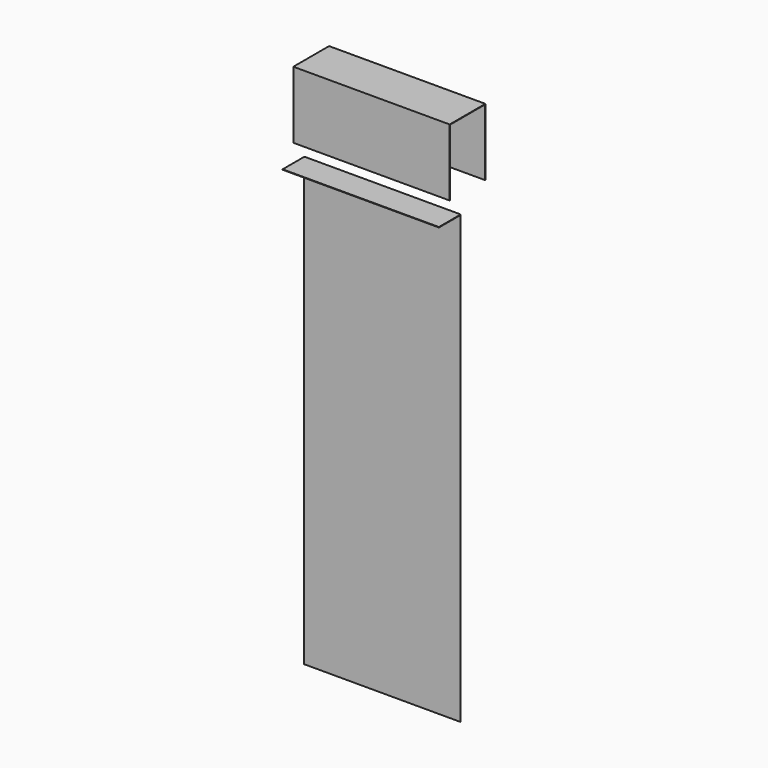
from build123d import *

# Parameters (mm, degrees)
F2_W          = 35
F2_H          = 0.1
F3_DEPTH      = 100
F4_W          = 35
F4_H          = 0.1
F5_DEPTH      = 6
F7_DEPTH      = 17.5
F7_DEPTH_BACK = 17.5


with BuildPart() as f3:
    # F2 (on Top) → F3 (new body)
    with BuildSketch(Plane.XY):
        with Locations((0, 0.05)):
            Rectangle(F2_W, F2_H)
    extrude(amount=-F3_DEPTH)

    # F4 (on Front) → F5 (join)
    with BuildSketch(Plane.XZ):
        with Locations((0, -0.05)):
            Rectangle(F4_W, F4_H)
    extrude(amount=F5_DEPTH)


with BuildPart() as f7:
    # F6 (on Right) → F7 (new body, two sides)
    with BuildSketch(Plane.YZ) as f7_sk:
        Polygon((-3, 19), (-3, 4), (-2.9, 4), (-2.9, 18.9), (6.9, 18.9), (6.9, 4), (7, 4), (7, 19), align=None)
    extrude(amount=F7_DEPTH)
    extrude(f7_sk.sketch, amount=-F7_DEPTH_BACK)


solid = Compound([f3.part, f7.part])
